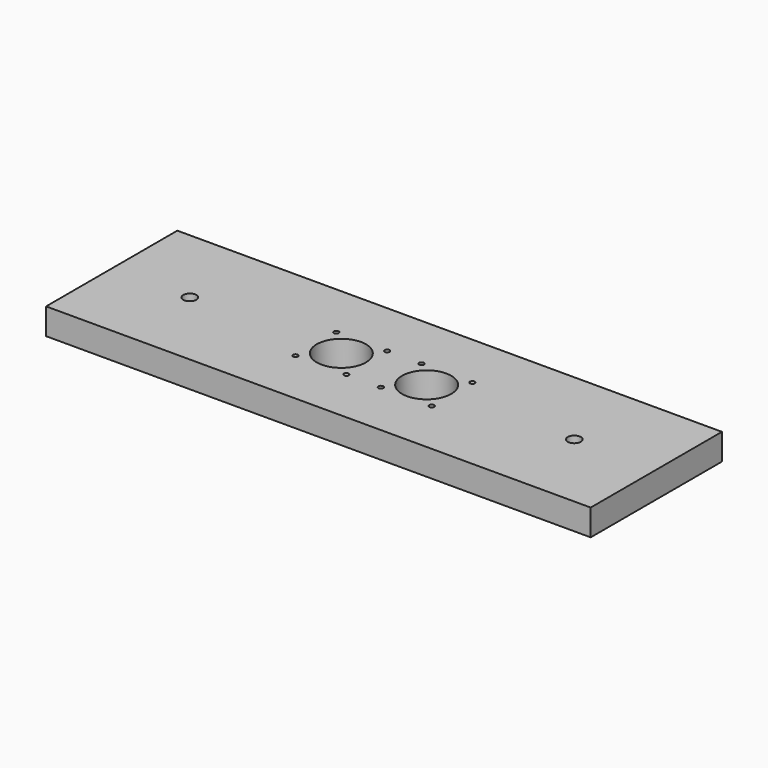
from build123d import *

# Parameters (mm, degrees)
F0_W     = 332
F0_H     = 100
F1_DEPTH = 16
F3_DEPTH = 25
F5_DEPTH = 25


with BuildPart() as f1:
    # F0 (on Top) → F1 (new body)
    with BuildSketch(Plane.XY):
        with Locations((166, 50)):
            Rectangle(F0_W, F0_H)
    extrude(amount=F1_DEPTH)

    # F2 (on face) → F3 (cut)
    with BuildSketch(Plane.XY.offset(16)):
        with BuildLine():
            Line((125, 50), (140, 50))
            Line((140, 50), (155, 50))
            ThreePointArc((155, 50), (140, 65), (125, 50))
        make_face()
        with BuildLine():
            Line((140, 50), (140, 35))
            ThreePointArc((140, 35), (150.6066017178, 39.3933982822), (155, 50))
            Line((155, 50), (140, 50))
        make_face()
        with BuildLine():
            ThreePointArc((125, 50), (129.3933982822, 39.3933982822), (140, 35))
            Line((140, 35), (140, 50))
            Line((140, 50), (125, 50))
        make_face()
        with BuildLine():
            ThreePointArc((126, 65.5), (123.4393398282, 66.5606601718), (124.5, 64))
            Line((124.5, 64), (124.5, 65.5))
            Line((124.5, 65.5), (126, 65.5))
        make_face()
        with BuildLine():
            Line((124.5, 65.5), (124.5, 64))
            ThreePointArc((124.5, 64), (125.5606601718, 64.4393398282), (126, 65.5))
            Line((126, 65.5), (124.5, 65.5))
        make_face()
        with BuildLine():
            ThreePointArc((124.5, 36), (123.4393398282, 33.4393398282), (126, 34.5))
            Line((126, 34.5), (124.5, 34.5))
            Line((124.5, 34.5), (124.5, 36))
        make_face()
        with BuildLine():
            Line((124.5, 34.5), (126, 34.5))
            ThreePointArc((126, 34.5), (125.5606601718, 35.5606601718), (124.5, 36))
            Line((124.5, 36), (124.5, 34.5))
        make_face()
        with BuildLine():
            Line((155.5, 34.5), (154, 34.5))
            ThreePointArc((154, 34.5), (155.5, 33), (157, 34.5))
            ThreePointArc((157, 34.5), (156.5606601718, 35.5606601718), (155.5, 36))
            Line((155.5, 36), (155.5, 34.5))
        make_face()
        with BuildLine():
            ThreePointArc((155.5, 36), (154.4393398282, 35.5606601718), (154, 34.5))
            Line((154, 34.5), (155.5, 34.5))
            Line((155.5, 34.5), (155.5, 36))
        make_face()
        with BuildLine():
            Line((155.5, 65.5), (155.5, 64))
            ThreePointArc((155.5, 64), (156.5606601718, 64.4393398282), (157, 65.5))
            ThreePointArc((157, 65.5), (155.5, 67), (154, 65.5))
            Line((154, 65.5), (155.5, 65.5))
        make_face()
        with BuildLine():
            ThreePointArc((154, 65.5), (154.4393398282, 64.4393398282), (155.5, 64))
            Line((155.5, 64), (155.5, 65.5))
            Line((155.5, 65.5), (154, 65.5))
        make_face()
        with BuildLine():
            Line((192, 50), (192, 35))
            ThreePointArc((192, 35), (202.6066017178, 39.3933982822), (207, 50))
            Line((207, 50), (192, 50))
        make_face()
        with BuildLine():
            Line((177, 50), (192, 50))
            Line((192, 50), (207, 50))
            ThreePointArc((207, 50), (192, 65), (177, 50))
        make_face()
        with BuildLine():
            ThreePointArc((177, 50), (181.3933982822, 39.3933982822), (192, 35))
            Line((192, 35), (192, 50))
            Line((192, 50), (177, 50))
        make_face()
        with BuildLine():
            ThreePointArc((178, 65.5), (175.4393398282, 66.5606601718), (176.5, 64))
            Line((176.5, 64), (176.5, 65.5))
            Line((176.5, 65.5), (178, 65.5))
        make_face()
        with BuildLine():
            Line((176.5, 65.5), (176.5, 64))
            ThreePointArc((176.5, 64), (177.5606601718, 64.4393398282), (178, 65.5))
            Line((178, 65.5), (176.5, 65.5))
        make_face()
        with BuildLine():
            ThreePointArc((176.5, 36), (175.4393398282, 33.4393398282), (178, 34.5))
            Line((178, 34.5), (176.5, 34.5))
            Line((176.5, 34.5), (176.5, 36))
        make_face()
        with BuildLine():
            Line((176.5, 34.5), (178, 34.5))
            ThreePointArc((178, 34.5), (177.5606601718, 35.5606601718), (176.5, 36))
            Line((176.5, 36), (176.5, 34.5))
        make_face()
        with BuildLine():
            ThreePointArc((207.5, 36), (206.4393398282, 35.5606601718), (206, 34.5))
            Line((206, 34.5), (207.5, 34.5))
            Line((207.5, 34.5), (207.5, 36))
        make_face()
        with BuildLine():
            Line((207.5, 34.5), (206, 34.5))
            ThreePointArc((206, 34.5), (207.5, 33), (209, 34.5))
            ThreePointArc((209, 34.5), (208.5606601718, 35.5606601718), (207.5, 36))
            Line((207.5, 36), (207.5, 34.5))
        make_face()
        with BuildLine():
            Line((207.5, 65.5), (207.5, 64))
            ThreePointArc((207.5, 64), (208.5606601718, 64.4393398282), (209, 65.5))
            ThreePointArc((209, 65.5), (207.5, 67), (206, 65.5))
            Line((206, 65.5), (207.5, 65.5))
        make_face()
        with BuildLine():
            ThreePointArc((206, 65.5), (206.4393398282, 64.4393398282), (207.5, 64))
            Line((207.5, 64), (207.5, 65.5))
            Line((207.5, 65.5), (206, 65.5))
        make_face()
    extrude(amount=-F3_DEPTH, mode=Mode.SUBTRACT)

    # F4 (on face) → F5 (cut)
    with BuildSketch(Plane.XY.offset(16)):
        with BuildLine():
            ThreePointArc((51.6347899064, 50), (44.8063627817, 52.8284271247), (47.6347899064, 46))
            ThreePointArc((47.6347899064, 46), (50.4632170312, 47.1715728753), (51.6347899064, 50))
        make_face()
        with BuildLine():
            ThreePointArc((286, 50), (279.1715728753, 52.8284271247), (282, 46))
            ThreePointArc((282, 46), (284.8284271247, 47.1715728753), (286, 50))
        make_face()
    extrude(amount=-F5_DEPTH, mode=Mode.SUBTRACT)


solid = f1.part
